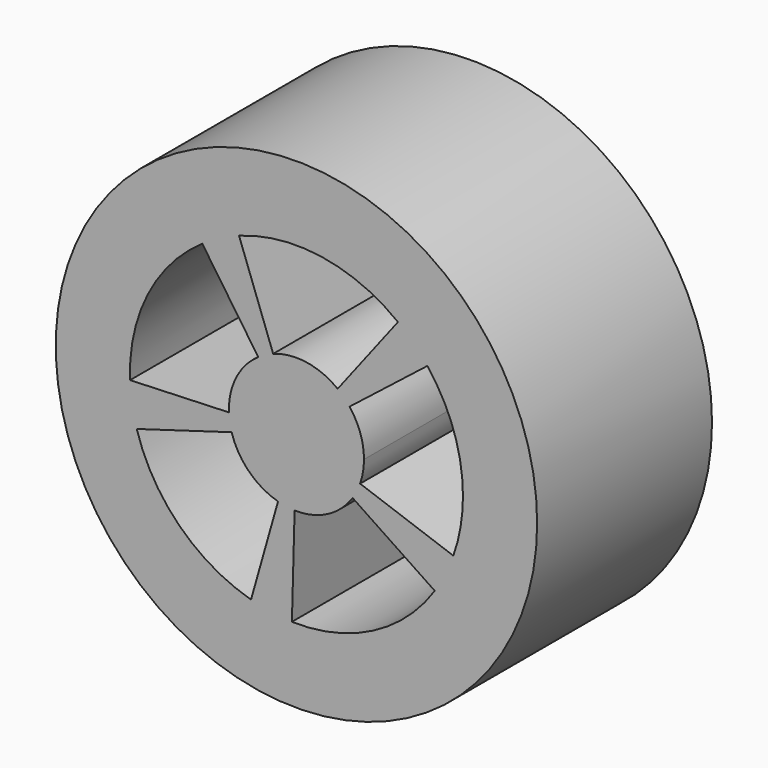
from build123d import *

# Parameters (mm, degrees)
F0_R     = 32.6
F0_R_2   = 4.75
F1_DEPTH = 29.6
F2_R     = 2.45
F3_DEPTH = 25


with BuildPart() as f1:
    # F0 (on Front) → F1 (new body)
    with BuildSketch(Plane.XZ):
        Circle(F0_R)
        with BuildLine():
            ThreePointArc((13.747567, 17.874756), (15.860659, 16.029411), (17.728264, 13.935967))
            ThreePointArc((17.728264, 13.935967), (21.3105, 7.373268), (22.55, 0))
            ThreePointArc((22.55, 0), (22.22215, -3.831257), (21.248135, -7.55111))
            ThreePointArc((21.248135, -7.55111), (20.146089, -10.131023), (18.732227, -12.55413))
            ThreePointArc((18.732227, -12.55413), (10.343662, -20.037743), (-0.615498, -22.541598))
            ThreePointArc((-0.615498, -22.541598), (-3.409691, -22.290727), (-6.151111, -21.694846))
            ThreePointArc((-6.151111, -21.694846), (-15.860659, -16.029411), (-21.628533, -6.380364))
            ThreePointArc((-21.628533, -6.380364), (-22.253394, -3.645404), (-22.533822, -0.854022))
            ThreePointArc((-22.533822, -0.854022), (-20.146089, 10.131023), (-12.751671, 18.598317))
            ThreePointArc((-12.751671, 18.598317), (-10.343662, 20.037743), (-7.775557, 21.167031))
            ThreePointArc((-7.775557, 21.167031), (3.409691, 22.290727), (13.747567, 17.874756))
        make_face(mode=Mode.SUBTRACT)
        with BuildLine():
            ThreePointArc((-5.174181, 7.546545), (-4.197096, 8.130614), (-3.155049, 8.58884))
            Line((-3.155049, 8.58884), (-7.775557, 21.167031))
            ThreePointArc((-7.775557, 21.167031), (-10.343662, 20.037743), (-12.751671, 18.598317))
            Line((-12.751671, 18.598317), (-5.174181, 7.546545))
        make_face()
        with BuildLine():
            ThreePointArc((5.578281, 7.25295), (6.4357, 6.504173), (7.193508, 5.654727))
            Line((7.193508, 5.654727), (17.728264, 13.935967))
            ThreePointArc((17.728264, 13.935967), (15.860659, 16.029411), (13.747567, 17.874756))
            Line((13.747567, 17.874756), (5.578281, 7.25295))
        make_face()
        with BuildLine():
            Line((21.248135, -7.55111), (8.621749, -3.063976))
            ThreePointArc((8.621749, -3.063976), (8.174577, -4.110814), (7.600881, -5.094026))
            Line((7.600881, -5.094026), (18.732227, -12.55413))
            ThreePointArc((18.732227, -12.55413), (20.146089, -10.131023), (21.248135, -7.55111))
        make_face()
        with BuildLine():
            Line((-0.615498, -22.541598), (-0.249747, -9.146591))
            ThreePointArc((-0.249747, -9.146591), (-1.383533, -9.044796), (-2.495905, -8.803008))
            Line((-2.495905, -8.803008), (-6.151111, -21.694846))
            ThreePointArc((-6.151111, -21.694846), (-3.409691, -22.290727), (-0.615498, -22.541598))
        make_face()
        with BuildLine():
            ThreePointArc((-8.776101, -2.588928), (-9.029648, -1.479177), (-9.143436, -0.346532))
            Line((-9.143436, -0.346532), (-22.533822, -0.854022))
            ThreePointArc((-22.533822, -0.854022), (-22.253394, -3.645404), (-21.628533, -6.380364))
            Line((-21.628533, -6.380364), (-8.776101, -2.588928))
        make_face()
        with BuildLine():
            ThreePointArc((8.621749, -3.063976), (9.01697, -1.55459), (9.15, 0))
            ThreePointArc((9.15, 0), (8.647054, 2.991814), (7.193508, 5.654727))
            ThreePointArc((7.193508, 5.654727), (6.4357, 6.504173), (5.578281, 7.25295))
            ThreePointArc((5.578281, 7.25295), (1.383533, 9.044796), (-3.155049, 8.58884))
            ThreePointArc((-3.155049, 8.58884), (-4.197096, 8.130614), (-5.174181, 7.546545))
            ThreePointArc((-5.174181, 7.546545), (-8.174577, 4.110814), (-9.143436, -0.346532))
            ThreePointArc((-9.143436, -0.346532), (-9.029648, -1.479177), (-8.776101, -2.588928))
            ThreePointArc((-8.776101, -2.588928), (-6.4357, -6.504173), (-2.495905, -8.803008))
            ThreePointArc((-2.495905, -8.803008), (-1.383533, -9.044796), (-0.249747, -9.146591))
            ThreePointArc((-0.249747, -9.146591), (4.197096, -8.130614), (7.600881, -5.094026))
            ThreePointArc((7.600881, -5.094026), (8.174577, -4.110814), (8.621749, -3.063976))
        make_face()
        Circle(F0_R_2, mode=Mode.SUBTRACT)
        Circle(F0_R_2)
    extrude(amount=F1_DEPTH)

    # F2 (on Front) → F3 (cut, symmetric)
    with BuildSketch(Plane.XZ):
        Circle(F2_R)
    extrude(amount=F3_DEPTH, both=True, mode=Mode.SUBTRACT)


solid = f1.part
